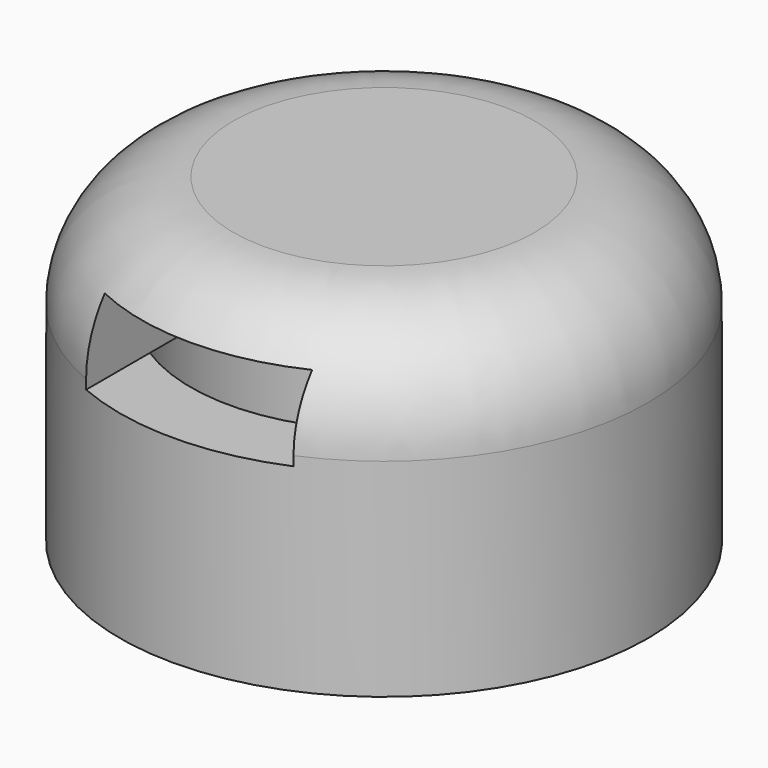
from build123d import *

# Parameters (mm, degrees)
F2_R     = 5.125
F3_DEPTH = 5.25
F4_W     = 5.5
F4_H     = 2
F5_DEPTH = 7.5


with BuildPart() as f1:
    # F0 (on Front) → F1 (revolve)
    with BuildSketch(Plane.XZ):
        with BuildLine():
            Line((0, 8.5), (0, 0))
            Line((0, 0), (7, 0))
            Line((7, 0), (7, 5.5))
            ThreePointArc((7, 5.5), (6.12132, 7.62132), (4, 8.5))
            Line((4, 8.5), (0, 8.5))
        make_face()
    revolve(axis=Axis((0, 0, 2.545049), (0, 0, 1)))

    # F2 (on face) → F3 (cut)
    with BuildSketch(Plane(origin=(0, 0, 0), x_dir=(1, 0, 0), z_dir=(0, 0, -1))):
        Circle(F2_R)
    extrude(amount=-F3_DEPTH, mode=Mode.SUBTRACT)

    # F4 (on Front) → F5 (cut, symmetric)
    with BuildSketch(Plane.XZ):
        with Locations((0, 6.25)):
            Rectangle(F4_W, F4_H)
    extrude(amount=F5_DEPTH, both=True, mode=Mode.SUBTRACT)


solid = f1.part
